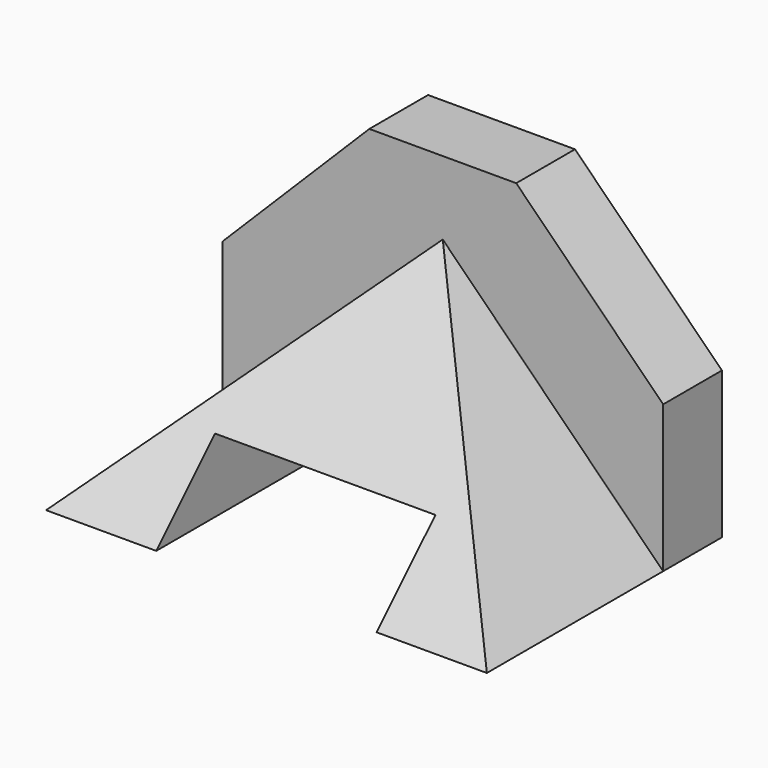
from build123d import *

# Parameters (mm, degrees)
F1_DEPTH = 50.8
F2_DEPTH = 12.7
F4_DEPTH = 76.201


with BuildPart() as f1:
    # F0 (on Front) → F1 (new body)
    with BuildSketch(Plane.XZ):
        Polygon((38.1, 38.1), (0, 0), (19.05, 0), (19.05, 12.7), (57.15, 12.7), (57.15, 0), (76.2, 0), align=None)
    extrude(amount=F1_DEPTH)

    # F0 (on Front) → F2 (join)
    with BuildSketch(Plane.XZ):
        Polygon((0, 25.4), (0, 0), (38.1, 38.1), (76.2, 0), (76.2, 25.4), (50.8, 50.8), (25.4, 50.8), align=None)
    extrude(amount=F2_DEPTH)

    # F3 (on Right) → F4 (cut, through all)
    with BuildSketch(Plane.YZ):
        Polygon((-50.8, 38.1), (-50.8, 0), (-12.7, 38.1), align=None)
    extrude(amount=F4_DEPTH, mode=Mode.SUBTRACT)


solid = f1.part
